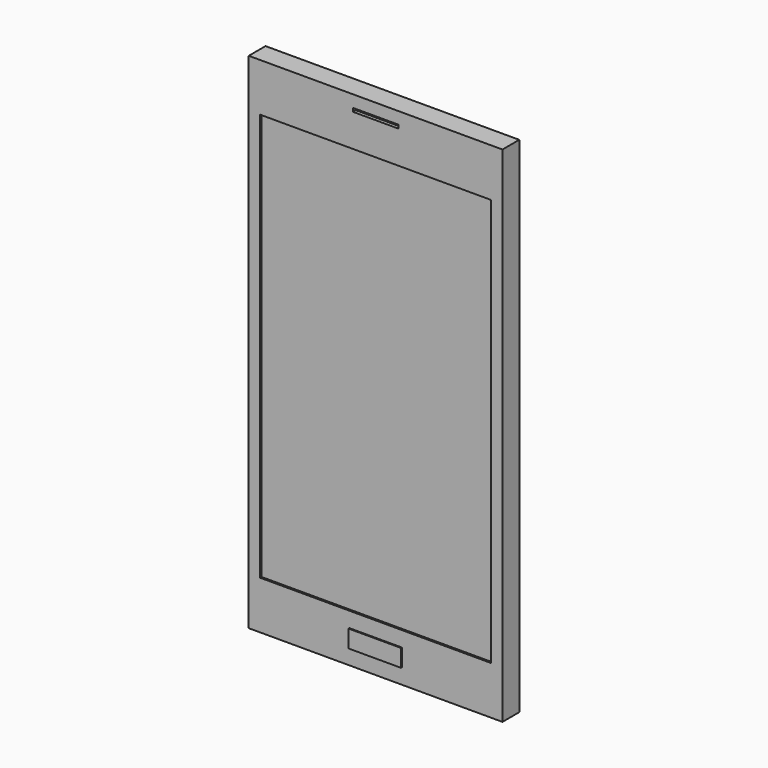
from build123d import *

# Parameters (mm, degrees)
F0_W      = 72.5
F0_H      = 144
F1_DEPTH  = 3
F2_W      = 72.5
F2_H      = 144
F3_DEPTH  = 3
F5_W      = 15
F5_H      = 5
F6_DEPTH  = 0.3
F7_W      = 8
F7_H      = 4
F8_DEPTH  = 16
F9_W      = 13
F9_H      = 1
F10_DEPTH = 1
F11_W     = 11
F11_H     = 11
F12_DEPTH = 1
F13_R     = 2.5
F14_DEPTH = 1
F4_W      = 66
F4_H      = 116.5
F15_DEPTH = 0.5
F16_R     = 1.481304
F17_DEPTH = 0.3
F18_R     = 0.686306
F19_DEPTH = 0.1


with BuildPart() as f1:
    # F0 (on Front) → F1 (new body)
    with BuildSketch(Plane.XZ):
        Rectangle(F0_W, F0_H)
    extrude(amount=F1_DEPTH)

    # F2 (on face) → F3 (join)
    with BuildSketch(Plane(origin=(0, 0, 0), x_dir=(-1, 0, 0), z_dir=(0, 1, 0))):
        Rectangle(F2_W, F2_H)
    extrude(amount=F3_DEPTH)

    # F5 (on face) → F6 (join)
    with BuildSketch(Plane.XZ.offset(3)):
        with Locations((0, -65.126628)):
            Rectangle(F5_W, F5_H)
    extrude(amount=F6_DEPTH)

    # F7 (on face) → F8 (cut)
    with BuildSketch(Plane(origin=(0, 0, -72), x_dir=(1, 0, 0), z_dir=(0, 0, -1))):
        Rectangle(F7_W, F7_H)
    extrude(amount=-F8_DEPTH, mode=Mode.SUBTRACT)

    # F9 (on face) → F10 (cut)
    with BuildSketch(Plane.XZ.offset(3)):
        with Locations((0, 68.084061)):
            Rectangle(F9_W, F9_H)
    extrude(amount=-F10_DEPTH, mode=Mode.SUBTRACT)

    # F11 (on face) → F12 (join)
    with BuildSketch(Plane(origin=(0, 3, 0), x_dir=(-1, 0, 0), z_dir=(0, 1, 0))):
        with Locations((0, 52.234016)):
            Rectangle(F11_W, F11_H)
    extrude(amount=F12_DEPTH)

    # F13 (on face) → F14 (cut)
    with BuildSketch(Plane(origin=(0, 4, 0), x_dir=(-1, 0, 0), z_dir=(0, 1, 0))):
        with Locations((0, 52.198544)):
            Circle(F13_R)
    extrude(amount=-F14_DEPTH, mode=Mode.SUBTRACT)

    # F4 (on face) → F15 (cut)
    with BuildSketch(Plane.XZ.offset(3)):
        Rectangle(F4_W, F4_H)
    extrude(amount=-F15_DEPTH, mode=Mode.SUBTRACT)

    # F16 (on face) → F17 (cut)
    with BuildSketch(Plane(origin=(0, 3, 0), x_dir=(-1, 0, 0), z_dir=(0, 1, 0))):
        with Locations((0, 52.198544)):
            Circle(F16_R)
    extrude(amount=-F17_DEPTH, mode=Mode.SUBTRACT)

    # F18 (on face) → F19 (join)
    with BuildSketch(Plane(origin=(0, 2.7, 0), x_dir=(-1, 0, 0), z_dir=(0, 1, 0))):
        with Locations((0, 52.198544)):
            Circle(F18_R)
    extrude(amount=F19_DEPTH)


solid = f1.part
